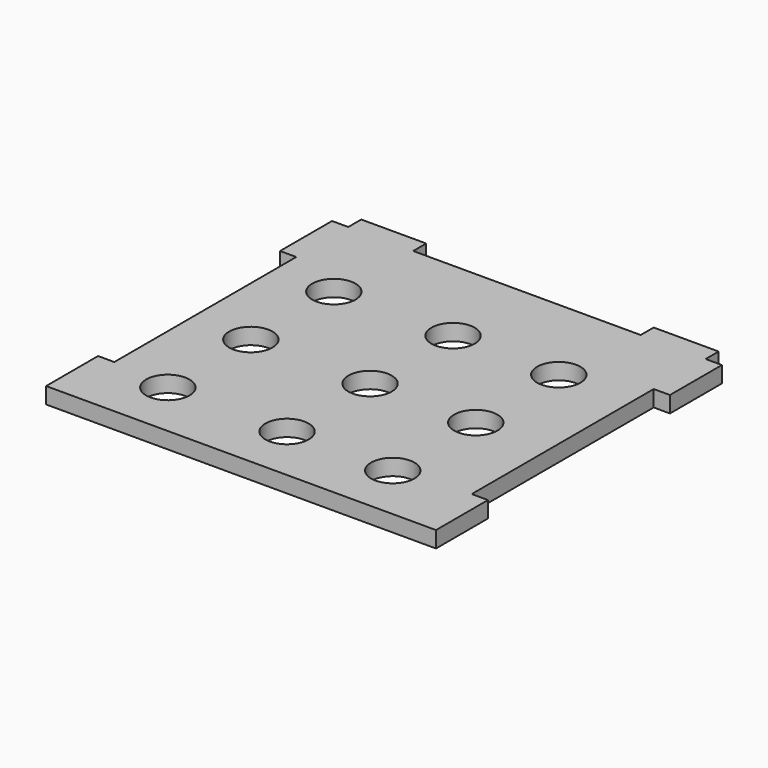
from build123d import *

# Parameters (mm, degrees)
F0_R     = 25.4
F1_DEPTH = 19.05


with BuildPart() as f1:
    # F0 (on Top) → F1 (new body)
    with BuildSketch(Plane.XY):
        Polygon((-234.412699, -438.15), (-215.362699, -438.15), (203.737301, -438.15), (222.787301, -438.15), (222.787301, -361.95), (203.737301, -361.95), (203.737301, -95.25), (222.787301, -95.25), (222.787301, -19.05), (203.737301, -19.05), (203.737301, 0), (127.537301, 0), (127.537301, -19.05), (-139.162699, -19.05), (-139.162699, 0), (-215.362699, 0), (-215.362699, -19.05), (-234.412699, -19.05), (-234.412699, -95.25), (-215.362699, -95.25), (-215.362699, -361.95), (-234.412699, -361.95), align=None)
        with Locations((-145.585313, -370.724559)):
            Circle(F0_R, mode=Mode.SUBTRACT)
        with Locations((-5.812699, -370.724559)):
            Circle(F0_R, mode=Mode.SUBTRACT)
        with Locations((-145.585313, -249.057989)):
            Circle(F0_R, mode=Mode.SUBTRACT)
        with Locations((-5.812699, -249.057989)):
            Circle(F0_R, mode=Mode.SUBTRACT)
        with Locations((118.170701, -370.724559)):
            Circle(F0_R, mode=Mode.SUBTRACT)
        with Locations((118.170701, -249.057989)):
            Circle(F0_R, mode=Mode.SUBTRACT)
        with Locations((-145.585313, -127.391989)):
            Circle(F0_R, mode=Mode.SUBTRACT)
        with Locations((-5.812699, -127.391989)):
            Circle(F0_R, mode=Mode.SUBTRACT)
        with Locations((118.170701, -127.391989)):
            Circle(F0_R, mode=Mode.SUBTRACT)
    extrude(amount=F1_DEPTH)


solid = f1.part
